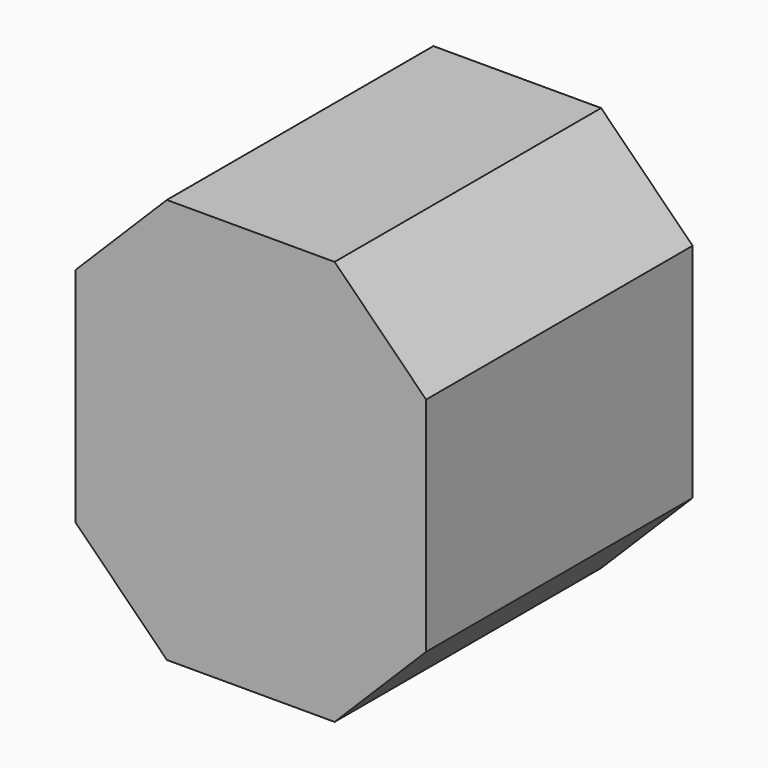
from build123d import *

# Parameters (mm, degrees)
BOX_W            = 4
BOX_H            = 4
BOX_DEPTH        = 10
EXTRUDE003_DEPTH = 3.8


with BuildPart() as box:
    # Box → Box (new body)
    with BuildSketch(Plane(origin=(-2, 2.8, 0), x_dir=(1, 0, 0), z_dir=(0, 0, 1))):
        with Locations((2, 2)):
            Rectangle(BOX_W, BOX_H)
    extrude(amount=BOX_DEPTH)


with BuildPart() as common:
    # Sketch002 → Extrude003 (new body)
    with BuildSketch(Plane.XZ):
        Polygon((2.309699, 1.35299), (2.309699, 3.266407), (0.956709, 4.619398), (-0.956709, 4.619398), (-2.309699, 3.266407), (-2.309699, 1.35299), (-0.956709, 0), (0.956709, 0), align=None)
    extrude(amount=-EXTRUDE003_DEPTH)


with BuildPart() as common_1:
    # Extrude003 placement: moved
    add(common.part.moved(Location((0, 3, 0))))

    # Common: intersect Box
    add(box.part, mode=Mode.INTERSECT)


solid = common_1.part
